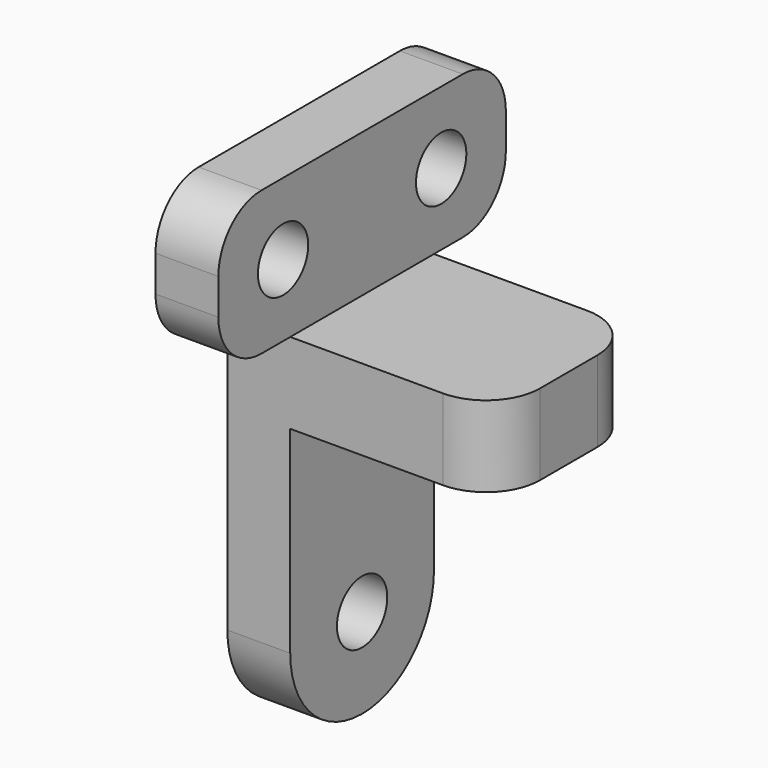
from build123d import *

# Parameters (mm, degrees)
SKETCH023_R  = 1.75
PAD024_DEPTH = 40
PAD025_DEPTH = 70
FILLET011_R  = 3


with BuildPart() as pad024:
    # Sketch023 → Pad024 (new body)
    with BuildSketch(Plane(origin=(-50, 0, 0), x_dir=(0, -1, 0), z_dir=(-1, 0, 0))):
        with BuildLine():
            ThreePointArc((-5, 18), (1e-05, 13), (5, 18.000021))
            Line((5, 33.500021), (5, 18.000021))
            Line((10, 33.500021), (5, 33.500021))
            Line((10, 41.5), (10, 33.500021))
            Line((-10, 41.5), (10, 41.5))
            Line((-10, 33.5), (-10, 41.5))
            Line((-5, 33.5), (-10, 33.5))
            Line((-5, 18), (-5, 33.5))
        make_face()
        with Locations((-5.5, 37.5)):
            Circle(SKETCH023_R, mode=Mode.SUBTRACT)
        with Locations((5.5, 37.5)):
            Circle(SKETCH023_R, mode=Mode.SUBTRACT)
        with Locations((0, 18)):
            Circle(SKETCH023_R, mode=Mode.SUBTRACT)
    extrude(amount=-PAD024_DEPTH)


with BuildPart() as clone_of_support002:
    # Sketch022 → Pad025 (new body)
    with BuildSketch(Plane.XZ.offset(40)):
        Polygon((-31.5, 12), (-35, 12), (-35, 53.5), (-31.5, 53.5), (-31.5, 33.5), (-20, 33.5), (-20, 29), (-31.5, 29), align=None)
    extrude(amount=-PAD025_DEPTH)

    # Common001: intersect Pad024
    add(pad024.part, mode=Mode.INTERSECT)

    # Fillet011
    fillet011_edges = [clone_of_support002.edges().sort_by_distance(p)[0] for p in [
        (-20, -5, 31.25),
        (-20, 5, 31.25),
        (-33.25, -10, 33.500021),
        (-33.25, 10, 33.5),
        (-33.25, -10, 41.5),
        (-33.25, 10, 41.5),
    ]]
    fillet(fillet011_edges, radius=FILLET011_R)


solid = clone_of_support002.part
